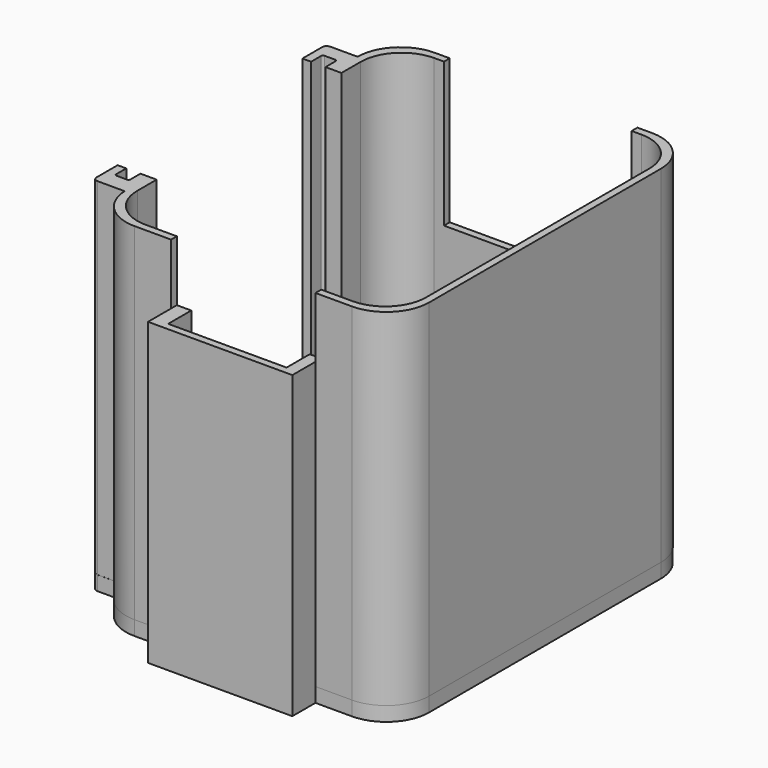
from build123d import *

# Parameters (mm, degrees)
PAD_DEPTH       = 5
PAD001_DEPTH    = 120
POCKET_DEPTH    = 125
POCKET001_DEPTH = 5
SKETCH005_W     = 65
SKETCH005_H     = 14.081008
POCKET002_DEPTH = 50
SKETCH006_W     = 50
SKETCH006_H     = 12.788605
POCKET003_DEPTH = 41
PAD003_DEPTH    = 84
PAD004_DEPTH    = 20


with BuildPart() as part:
    # Sketch → Pad (new body)
    with BuildSketch(Plane.XY):
        with BuildLine():
            Line((-37.700377, -64.976087), (37.645855, -64.976087))
            ThreePointArc((37.645855, -64.976087), (48.132338, -60.632444), (52.475981, -50.145961))
            Line((52.475981, -50.145961), (52.475981, 50.144628))
            ThreePointArc((52.475981, 50.144628), (48.132338, 60.63111), (37.645855, 64.974754))
            Line((37.645855, 64.974754), (-37.689561, 64.974754))
            ThreePointArc((-37.689561, 64.974754), (-48.173873, 60.63328), (-52.519686, 50.150766))
            Line((-52.519686, 50.150766), (-61.964051, 50.150766))
            ThreePointArc((-61.964051, 50.150766), (-63.064051, 49.695131), (-63.519686, 48.595131))
            Line((-63.519686, 48.595131), (-63.519686, -49.156657))
            ThreePointArc((-63.519686, -49.156657), (-63.064051, -50.256657), (-61.964051, -50.712292))
            Line((-52.519686, -50.712292), (-61.964051, -50.712292))
            ThreePointArc((-52.519686, -50.712292), (-47.984683, -60.830796), (-37.700377, -64.976087))
        make_face()
    extrude(amount=PAD_DEPTH)

    # Sketch001 (on Face14 of Pad) → Pad001 (join)
    with BuildSketch(Plane.XY.offset(5)):
        with BuildLine():
            Line((-37.672841, -65), (37.643326, -65))
            ThreePointArc((37.643326, -65), (48.148581, -60.648581), (52.5, -50.143326))
            Line((52.5, -50.143326), (52.5, 50.143326))
            ThreePointArc((52.5, 50.143326), (48.148581, 60.648581), (37.643326, 65))
            Line((37.643326, 65), (-37.662754, 65))
            ThreePointArc((-37.662754, 65), (-48.168272, 60.648318), (-52.519428, 50.142583))
            Line((-52.519428, 50.142583), (-61.967391, 50.142583))
            ThreePointArc((-61.967391, 50.142583), (-63.064847, 49.688002), (-63.519428, 48.590546))
            Line((-63.519428, 48.590546), (-63.519428, -49.13867))
            ThreePointArc((-63.519428, -49.13867), (-63.064847, -50.236126), (-61.967391, -50.690707))
            Line((-52.519428, -50.690707), (-61.967391, -50.690707))
            ThreePointArc((-52.519428, -50.690707), (-47.982752, -60.840359), (-37.672841, -65))
        make_face()
        with BuildLine():
            Line((-35.860247, -62.5), (35.860247, -62.5))
            ThreePointArc((35.860247, -62.5), (45.858562, -58.358562), (50, -48.360247))
            Line((50, -48.360247), (50, 48.360247))
            ThreePointArc((50, 48.360247), (45.858562, 58.358562), (35.860247, 62.5))
            Line((35.860247, 62.5), (-35.860247, 62.5))
            ThreePointArc((-35.860247, 62.5), (-45.858562, 58.358562), (-50, 48.360247))
            Line((-50, 48.360247), (-50, -48.360247))
            ThreePointArc((-50, -48.360247), (-45.858562, -58.358562), (-35.860247, -62.5))
        make_face(mode=Mode.SUBTRACT)
    extrude(amount=PAD001_DEPTH)

    # Sketch002 (on Face4 of Pad001) → Pocket (cut)
    with BuildSketch(Plane(origin=(0, 0, 0), x_dir=(1, 0, 0), z_dir=(0, 0, -1))):
        with BuildLine():
            Line((-63.519686, 40), (-63.519686, -40))
            Line((-63.519686, -40), (-60.519686, -40))
            Line((-60.519686, -40), (-60.519686, -44.345519))
            ThreePointArc((-60.519686, -44.345519), (-60.327906, -44.808517), (-59.864908, -45.000297))
            Line((-59.864908, -45.000297), (-56.174464, -45.000297))
            ThreePointArc((-56.174464, -45.000297), (-55.711466, -44.808517), (-55.519686, -44.345519))
            Line((-55.519686, -44.345519), (-55.519686, -40))
            Line((-55.519686, -40), (-48.593648, -40))
            Line((-48.593648, -40), (-48.593648, 40.000547))
            Line((-55.593648, 40.000547), (-48.593648, 40.000547))
            Line((-55.593648, 44.345222), (-55.593648, 40.000547))
            ThreePointArc((-55.593648, 44.345222), (-55.785428, 44.80822), (-56.248426, 45))
            Line((-59.864908, 45), (-56.248426, 45))
            ThreePointArc((-59.864908, 45), (-60.327906, 44.80822), (-60.519686, 44.345222))
            Line((-60.519686, 40), (-60.519686, 44.345222))
            Line((-63.519686, 40), (-60.519686, 40))
        make_face()
    extrude(amount=-POCKET_DEPTH, mode=Mode.SUBTRACT)

    # Sketch003 (on Face4 of Pocket) → Pocket001 (cut)
    with BuildSketch(Plane(origin=(0, 0, 0), x_dir=(1, 0, 0), z_dir=(0, 0, -1))):
        with BuildLine():
            ThreePointArc((0, -30.099214), (30.047141, -0.048909), (0, 30.001395))
            Line((0, 30.001395), (-50, 30.001395))
            Line((-50, -30.099214), (-50, 30.001395))
            Line((0, -30.099214), (-50, -30.099214))
        make_face()
    extrude(amount=-POCKET001_DEPTH, mode=Mode.SUBTRACT)

    # Sketch005 (on Face46 of Pocket001) → Pocket002 (cut)
    with BuildSketch(Plane.XY.offset(125)):
        with Locations((0, 65.410759)):
            Rectangle(SKETCH005_W, SKETCH005_H)
    extrude(amount=-POCKET002_DEPTH, mode=Mode.SUBTRACT)

    # Sketch006 (on Face46 of Pocket002) → Pocket003 (cut)
    with BuildSketch(Plane.XY.offset(125)):
        with Locations((0, -63.418121)):
            Rectangle(SKETCH006_W, SKETCH006_H)
    extrude(amount=-POCKET003_DEPTH, mode=Mode.SUBTRACT)

    # Sketch007 (on Face4 of Pocket003) → Pad003 (join)
    with BuildSketch(Plane(origin=(0, 0, 0), x_dir=(1, 0, 0), z_dir=(0, 0, -1))):
        Polygon((-0.027261, 64.976087), (-25.027261, 64.976087), (-25.027261, 74.976087), (24.972739, 74.976087), (24.972739, 64.976087), align=None)
    extrude(amount=-PAD003_DEPTH)

    # Sketch009 (on Face73 of Pad003) → Pad004 (join)
    with BuildSketch(Plane.XY.offset(84)):
        Polygon((-25, -62.5), (-25, -74.976087), (24.972739, -74.976087), (24.972739, -62.5), (21, -62.5), (21, -72.5), (-20, -72.5), (-20, -62.5), align=None)
    extrude(amount=PAD004_DEPTH)


solid = part.part
